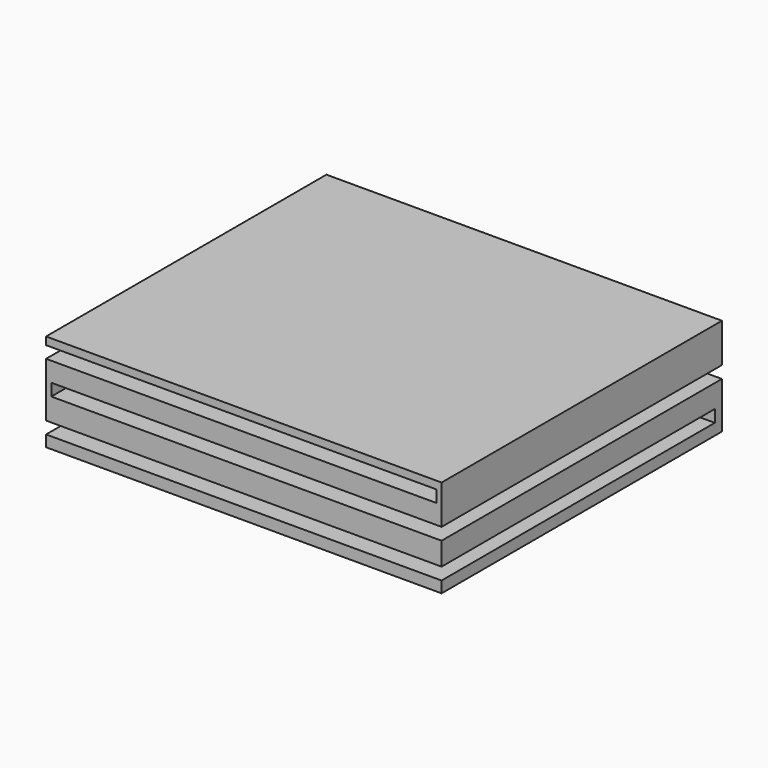
from build123d import *

# Parameters (mm, degrees)
F0_W     = 102.955818
F0_H     = 91.223456
F1_DEPTH = 25.4
F2_W     = 91.223456
F2_H     = 3.111502
F3_DEPTH = 101.6
F4_W     = 91.223456
F4_H     = 3.175
F5_DEPTH = 101.6
F6_W     = 102.955818
F6_H     = 3.175
F7_DEPTH = 88.9


with BuildPart() as f1:
    # F0 (on Top) → F1 (new body)
    with BuildSketch(Plane.XY):
        Rectangle(F0_W, F0_H)
    extrude(amount=F1_DEPTH)

    # F2 (on face) → F3 (cut)
    with BuildSketch(Plane(origin=(-51.477909, 0, 0), x_dir=(0, -1, 0), z_dir=(-1, 0, 0))):
        with Locations((0, 21.836062)):
            Rectangle(F2_W, F2_H)
    extrude(amount=-F3_DEPTH, mode=Mode.SUBTRACT)

    # F4 (on face) → F5 (cut)
    with BuildSketch(Plane.YZ.offset(51.477909)):
        with Locations((0, 13.6525)):
            Rectangle(F4_W, F4_H)
    extrude(amount=-F5_DEPTH, mode=Mode.SUBTRACT)

    # F6 (on face) → F7 (cut)
    with BuildSketch(Plane.XZ.offset(45.611728)):
        with Locations((0, 4.532312)):
            Rectangle(F6_W, F6_H)
    extrude(amount=-F7_DEPTH, mode=Mode.SUBTRACT)


solid = f1.part
